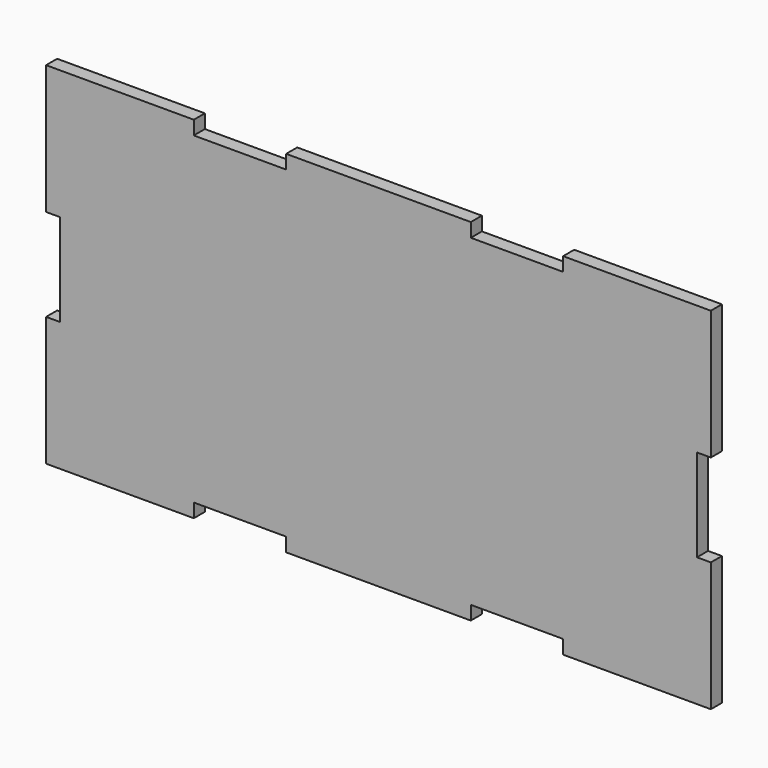
from build123d import *

# Parameters (mm, degrees)
F1_DEPTH = 3


with BuildPart() as f1:
    # F0 (on Front) → F1 (new body)
    with BuildSketch(Plane.XZ):
        Polygon((40, -38), (72, -38), (72, -10), (69, -10), (69, 10), (72, 10), (72, 38), (40, 38), (40, 35), (20, 35), (20, 38), (-20, 38), (-20, 35), (-40, 35), (-40, 38), (-72, 38), (-72, 10), (-69, 10), (-69, -10), (-72, -10), (-72, -38), (-40, -38), (-40, -35), (-20, -35), (-20, -38), (20, -38), (20, -35), (40, -35), align=None)
    extrude(amount=F1_DEPTH)


solid = f1.part
